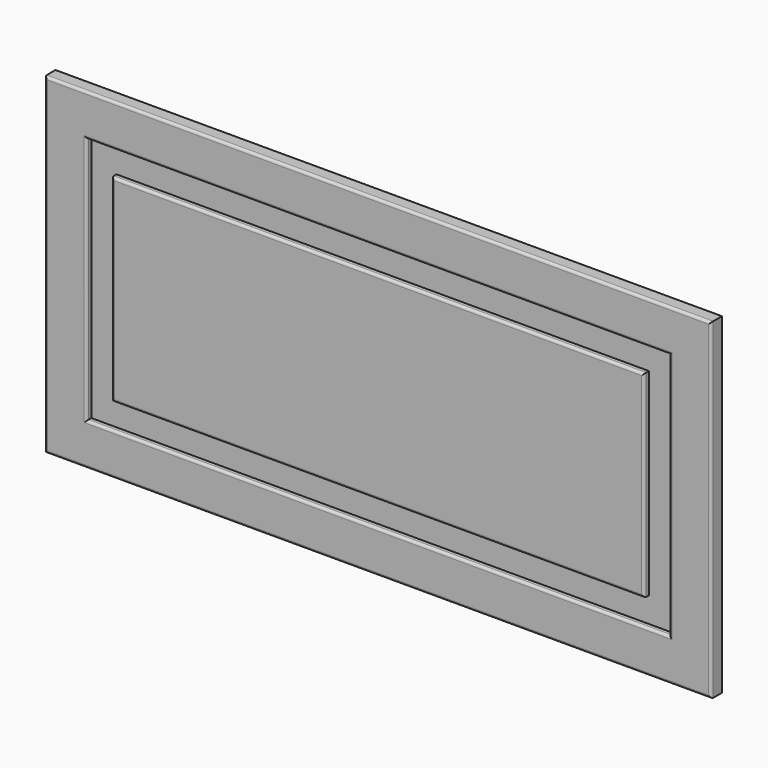
from build123d import *

# Parameters (mm, degrees)
F0_W      = 44.656470418
F0_H      = 33.8078811765
F1_DEPTH  = 16
F2_DEPTH  = 796
F3_DEPTH  = 196
F4_W      = 68.9578056335
F4_H      = 493.6993122101
F5_DEPTH  = 7
F6_DEPTH  = 9.7
F7_DEPTH  = 99.33
F8_DEPTH  = 99.33
F9_DEPTH  = 17.34
F10_DEPTH = 102.97
F11_W     = 35.2807044983
F11_H     = 492.0964837074
F12_DEPTH = 7
F13_DEPTH = 37.27
F14_DEPTH = 6.58
F15_DEPTH = 106.63
F16_DEPTH = 5.87
F17_DEPTH = 200
F18_DEPTH = 200
F19_DEPTH = 200
F20_DEPTH = 200
F21_DEPTH = 200
F22_DEPTH = 200
F23_DEPTH = 600
F24_DEPTH = 600
F25_DEPTH = 600
F26_DEPTH = 200
F27_DEPTH = 200
F28_DEPTH = 200
F29_DEPTH = 200
F30_DEPTH = 200
F31_DEPTH = 200
F32_DEPTH = 200
F33_DEPTH = 200
F34_DEPTH = 200
F35_DEPTH = 200
F36_DEPTH = 200
F37_DEPTH = 200
F38_R     = 3


with BuildPart() as f1:
    # F0 (on Front) → F1 (new body)
    with BuildSketch(Plane.XZ):
        with Locations((22.328235209, 16.9039405882)):
            Rectangle(F0_W, F0_H)
    extrude(amount=F1_DEPTH)

    # F2 (add): a face of the model
    f2_faces = [f1.faces().sort_by_distance(p)[0] for p in [
        (22.328235209, -8, 0),
    ]]
    extrude(f2_faces, amount=-F2_DEPTH)

    # F3 (add): a face of the model
    f3_faces = [f1.faces().sort_by_distance(p)[0] for p in [
        (0, -8, 398),
    ]]
    extrude(f3_faces, amount=-F3_DEPTH)

    # F4 (on face) → F5 (cut)
    with BuildSketch(Plane.XZ.offset(16)):
        with Locations((94.1769480705, 399.8196721077)):
            Rectangle(F4_W, F4_H)
    extrude(amount=-F5_DEPTH, mode=Mode.SUBTRACT)

    # F6 (cut): a face of the model
    f6_faces = [f1.faces().sort_by_distance(p)[0] for p in [
        (59.6980452538, -12.5, 399.8196721077),
    ]]
    extrude(f6_faces, amount=-F6_DEPTH, mode=Mode.SUBTRACT)

    # F7 (add): a face of the model
    f7_faces = [f1.faces().sort_by_distance(p)[0] for p in [
        (89.3269480705, -12.5, 646.6693282127),
    ]]
    extrude(f7_faces, amount=-F7_DEPTH)

    # F8 (cut): a face of the model
    f8_faces = [f1.faces().sort_by_distance(p)[0] for p in [
        (89.3269480705, -12.5, 646.6693282127),
    ]]
    extrude(f8_faces, amount=-F8_DEPTH, mode=Mode.SUBTRACT)

    # F9 (cut): a face of the model
    f9_faces = [f1.faces().sort_by_distance(p)[0] for p in [
        (128.6558508873, -12.5, 449.4846721077),
    ]]
    extrude(f9_faces, amount=-F9_DEPTH, mode=Mode.SUBTRACT)

    # F10 (cut): a face of the model
    f10_faces = [f1.faces().sort_by_distance(p)[0] for p in [
        (97.9969480705, -12.5, 152.9700160027),
    ]]
    extrude(f10_faces, amount=-F10_DEPTH, mode=Mode.SUBTRACT)

    # F11 (on face) → F12 (join)
    with BuildSketch(Plane.XZ.offset(9)):
        with Locations((91.7714834213, 432.6795041561)):
            Rectangle(F11_W, F11_H)
    extrude(amount=F12_DEPTH)

    # F13 (add): a face of the model
    f13_faces = [f1.faces().sort_by_distance(p)[0] for p in [
        (91.7714834213, -12.5, 678.7277460098),
    ]]
    extrude(f13_faces, amount=F13_DEPTH)

    # F14 (add): a face of the model
    f14_faces = [f1.faces().sort_by_distance(p)[0] for p in [
        (109.4118356705, -12.5, 451.3145041561),
    ]]
    extrude(f14_faces, amount=F14_DEPTH)

    # F15 (add): a face of the model
    f15_faces = [f1.faces().sort_by_distance(p)[0] for p in [
        (95.0614834213, -12.5, 186.6312623024),
    ]]
    extrude(f15_faces, amount=F15_DEPTH)

    # F16 (cut): a face of the model
    f16_faces = [f1.faces().sort_by_distance(p)[0] for p in [
        (74.1311311722, -12.5, 397.9995041561),
    ]]
    extrude(f16_faces, amount=-F16_DEPTH, mode=Mode.SUBTRACT)

    # F17 (add): a face of the model
    f17_faces = [f1.faces().sort_by_distance(p)[0] for p in [
        (196, -8, 398),
    ]]
    extrude(f17_faces, amount=F17_DEPTH)

    # F18 (cut): a face of the model
    f18_faces = [f1.faces().sort_by_distance(p)[0] for p in [
        (145.9958508873, -12.5, 397.9996721077),
    ]]
    extrude(f18_faces, amount=-F18_DEPTH, mode=Mode.SUBTRACT)

    # F19 (add): a face of the model
    f19_faces = [f1.faces().sort_by_distance(p)[0] for p in [
        (115.9918356705, -12.5, 397.9995041561),
    ]]
    extrude(f19_faces, amount=F19_DEPTH)

    # F20 (add): a face of the model
    f20_faces = [f1.faces().sort_by_distance(p)[0] for p in [
        (396, -8, 398),
    ]]
    extrude(f20_faces, amount=F20_DEPTH)

    # F21 (cut): a face of the model
    f21_faces = [f1.faces().sort_by_distance(p)[0] for p in [
        (345.9958508873, -12.5, 397.9996721077),
    ]]
    extrude(f21_faces, amount=-F21_DEPTH, mode=Mode.SUBTRACT)

    # F22 (add): a face of the model
    f22_faces = [f1.faces().sort_by_distance(p)[0] for p in [
        (315.9918356705, -12.5, 397.9995041561),
    ]]
    extrude(f22_faces, amount=F22_DEPTH)

    # F23 (cut): a face of the model
    f23_faces = [f1.faces().sort_by_distance(p)[0] for p in [
        (297.9964834213, -12.5, 80.0012623024),
    ]]
    extrude(f23_faces, amount=-F23_DEPTH, mode=Mode.SUBTRACT)

    # F24 (add): a face of the model
    f24_faces = [f1.faces().sort_by_distance(p)[0] for p in [
        (297.9969480705, -12.5, 50.0000160027),
    ]]
    extrude(f24_faces, amount=F24_DEPTH)

    # F25 (cut): a face of the model
    f25_faces = [f1.faces().sort_by_distance(p)[0] for p in [
        (298, -8, 0),
    ]]
    extrude(f25_faces, amount=-F25_DEPTH, mode=Mode.SUBTRACT)

    # F26 (add): a face of the model
    f26_faces = [f1.faces().sort_by_distance(p)[0] for p in [
        (298, -8, 600),
    ]]
    extrude(f26_faces, amount=F26_DEPTH)

    # F27 (cut): a face of the model
    f27_faces = [f1.faces().sort_by_distance(p)[0] for p in [
        (297.9969480705, -12.5, 650.0000160027),
    ]]
    extrude(f27_faces, amount=-F27_DEPTH, mode=Mode.SUBTRACT)

    # F28 (add): a face of the model
    f28_faces = [f1.faces().sort_by_distance(p)[0] for p in [
        (297.9964834213, -12.5, 680.0012623024),
    ]]
    extrude(f28_faces, amount=F28_DEPTH)

    # F29 (add): a face of the model
    f29_faces = [f1.faces().sort_by_distance(p)[0] for p in [
        (596, -8, 598),
    ]]
    extrude(f29_faces, amount=F29_DEPTH)

    # F30 (cut): a face of the model
    f30_faces = [f1.faces().sort_by_distance(p)[0] for p in [
        (545.9958508873, -12.5, 597.9996721077),
    ]]
    extrude(f30_faces, amount=-F30_DEPTH, mode=Mode.SUBTRACT)

    # F31 (add): a face of the model
    f31_faces = [f1.faces().sort_by_distance(p)[0] for p in [
        (515.9918356705, -12.5, 597.9995041561),
    ]]
    extrude(f31_faces, amount=F31_DEPTH)

    # F32 (cut): a face of the model
    f32_faces = [f1.faces().sort_by_distance(p)[0] for p in [
        (397.9964834213, -12.5, 480.0012623024),
    ]]
    extrude(f32_faces, amount=-F32_DEPTH, mode=Mode.SUBTRACT)

    # F33 (add): a face of the model
    f33_faces = [f1.faces().sort_by_distance(p)[0] for p in [
        (397.9969480705, -12.5, 450.0000160027),
    ]]
    extrude(f33_faces, amount=F33_DEPTH)

    # F34 (cut): a face of the model
    f34_faces = [f1.faces().sort_by_distance(p)[0] for p in [
        (398, -8, 400),
    ]]
    extrude(f34_faces, amount=-F34_DEPTH, mode=Mode.SUBTRACT)

    # F35 (add): a face of the model
    f35_faces = [f1.faces().sort_by_distance(p)[0] for p in [
        (398, -8, 600),
    ]]
    extrude(f35_faces, amount=F35_DEPTH)

    # F36 (cut): a face of the model
    f36_faces = [f1.faces().sort_by_distance(p)[0] for p in [
        (397.9969480705, -12.5, 650.0000160027),
    ]]
    extrude(f36_faces, amount=-F36_DEPTH, mode=Mode.SUBTRACT)

    # F37 (add): a face of the model
    f37_faces = [f1.faces().sort_by_distance(p)[0] for p in [
        (397.9964834213, -12.5, 680.0012623024),
    ]]
    extrude(f37_faces, amount=F37_DEPTH)

    # F38
    f38_edges = [f1.edges().sort_by_distance(p)[0] for p in [
        (397.996483, -16, 715.997746),
        (715.991836, -16, 597.999504),
        (397.996483, -16, 480.001262),
        (80.001131, -16, 597.999504),
        (0, -16, 598),
        (398, -16, 400),
        (796, -16, 598),
        (398, -16, 796),
        (49.998045, -16, 597.999672),
        (397.996948, -16, 745.999328),
        (745.995851, -16, 597.999672),
        (397.996948, -16, 450.000016),
    ]]
    fillet(f38_edges, radius=F38_R)


solid = f1.part
